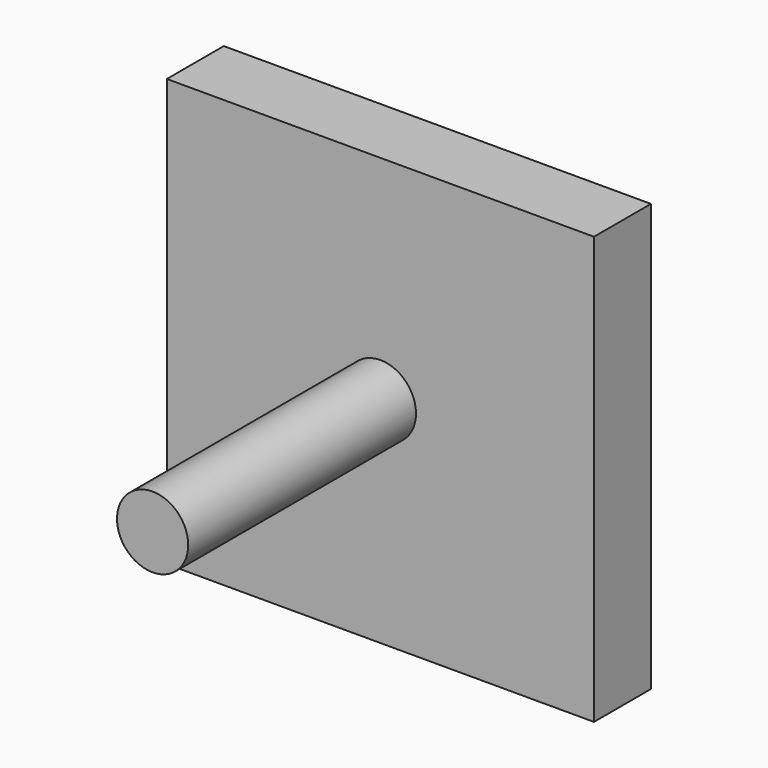
from build123d import *

# Parameters (mm, degrees)
F0_W          = 76.2
F0_H          = 76.2
F0_R          = 6.35
F1_DEPTH      = 12.7
F2_DEPTH      = 50.8
F2_DEPTH_BACK = 12.7


with BuildPart() as f1:
    # F0 (on Front) → F1 (new body)
    with BuildSketch(Plane.XZ):
        with Locations((38.1, -38.1)):
            Rectangle(F0_W, F0_H)
        with Locations((38.1, -38.1)):
            Circle(F0_R, mode=Mode.SUBTRACT)
    extrude(amount=-F1_DEPTH)

    # F0 (on Front) → F2 (join, two sides)
    with BuildSketch(Plane.XZ) as f2_sk:
        with Locations((38.1, -38.1)):
            Circle(F0_R)
    extrude(amount=F2_DEPTH)
    extrude(f2_sk.sketch, amount=-F2_DEPTH_BACK)


solid = f1.part
